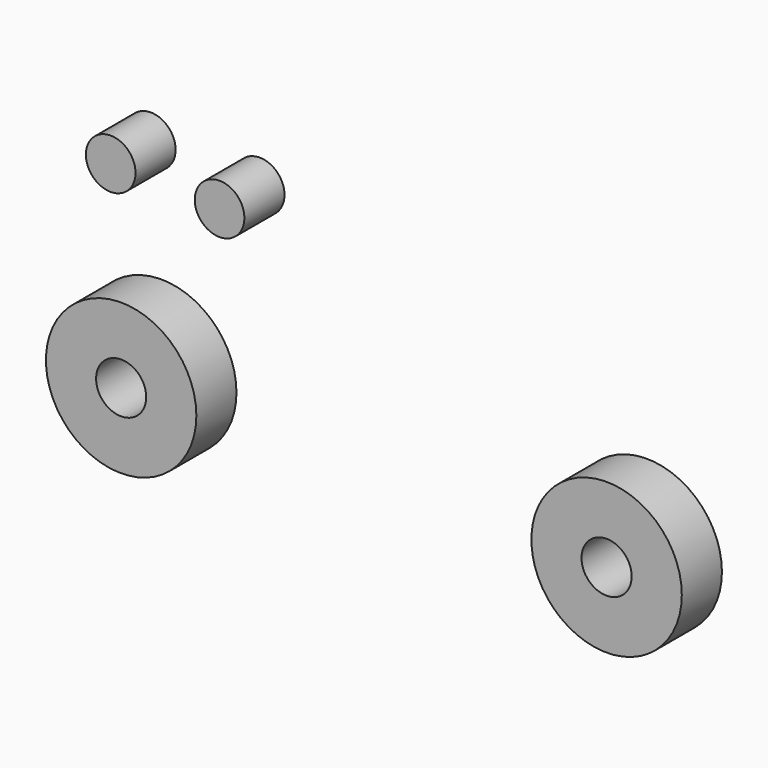
from build123d import *

# Parameters (mm, degrees)
F0_R     = 12.573
F0_R_2   = 38.1
F0_R_3   = 12.7
F1_DEPTH = 25.4


with BuildPart() as f1:
    # F0 (on Front) → F1 (new body)
    with BuildSketch(Plane.XZ):
        with Locations((-162.102625, 98.239593)):
            Circle(F0_R)
        with Locations((-106.946871, 96.045889)):
            Circle(F0_R)
        with Locations((-156.809137, 0)):
            Circle(F0_R_2)
        with Locations((-156.809137, 0)):
            Circle(F0_R_3, mode=Mode.SUBTRACT)
        with Locations((89.111797, 0)):
            Circle(F0_R_2)
        with Locations((89.111797, 0)):
            Circle(F0_R_3, mode=Mode.SUBTRACT)
    extrude(amount=F1_DEPTH)


solid = f1.part
